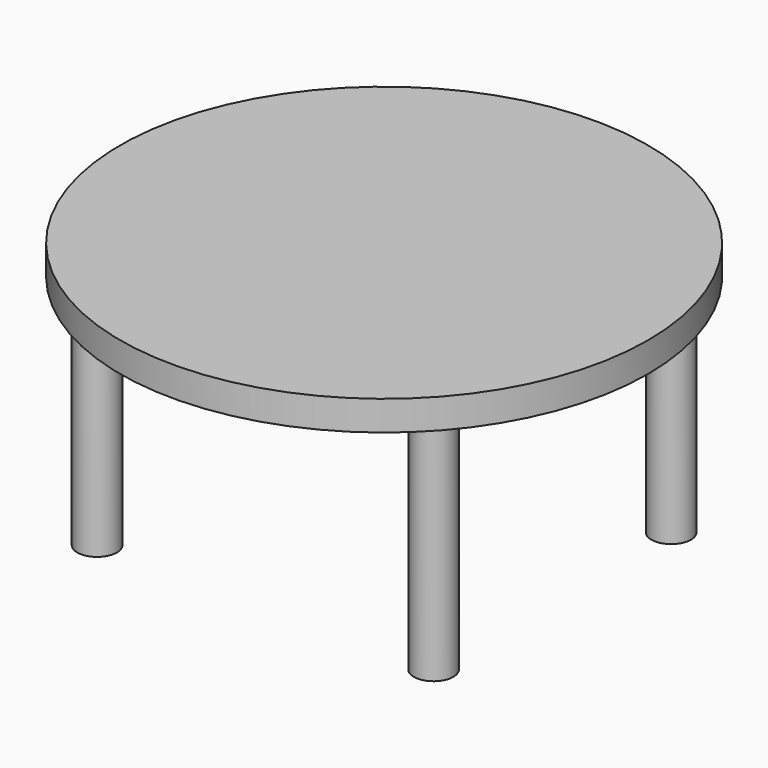
from build123d import *

# Parameters (mm, degrees)
CYLINDER002001007_R     = 2
CYLINDER002001007_DEPTH = 23.3333
ARRAY001_X_COUNT        = 2
ARRAY001_X_PITCH        = 34
ARRAY001_Y_COUNT        = 2
ARRAY001_Y_PITCH        = 30
CYLINDER002001006_R     = 26.6667
CYLINDER002001006_DEPTH = 3


with BuildPart() as obj1:
    # Cylinder002001007 → Cylinder002001007 (new body)
    with BuildSketch(Plane(origin=(25, 150, 0), x_dir=(1, 0, 0), z_dir=(0, 0, 1))):
        Circle(CYLINDER002001007_R)
    extrude(amount=CYLINDER002001007_DEPTH)

    # Array001 X: obj1_2


with BuildPart() as obj1_1:
    add(obj1.part)
    with Locations(*[(i * ARRAY001_X_PITCH, 0, 0) for i in range(1, ARRAY001_X_COUNT)]):
        add(obj1.part)

    # Array001 Y: obj1_2


with BuildPart() as obj1_2:
    add(obj1_1.part)
    with Locations(*[(0, i * ARRAY001_Y_PITCH, 0) for i in range(1, ARRAY001_Y_COUNT)]):
        add(obj1_1.part)


with BuildPart() as obj2:
    # Cylinder002001006 → Cylinder002001006 (new body)
    with BuildSketch(Plane(origin=(42, 165, 23.3333), x_dir=(1, 0, 0), z_dir=(0, 0, 1))):
        Circle(CYLINDER002001006_R)
    extrude(amount=CYLINDER002001006_DEPTH)

    # Fusion010: union obj1
    add(obj1_2.part)


solid = obj2.part
